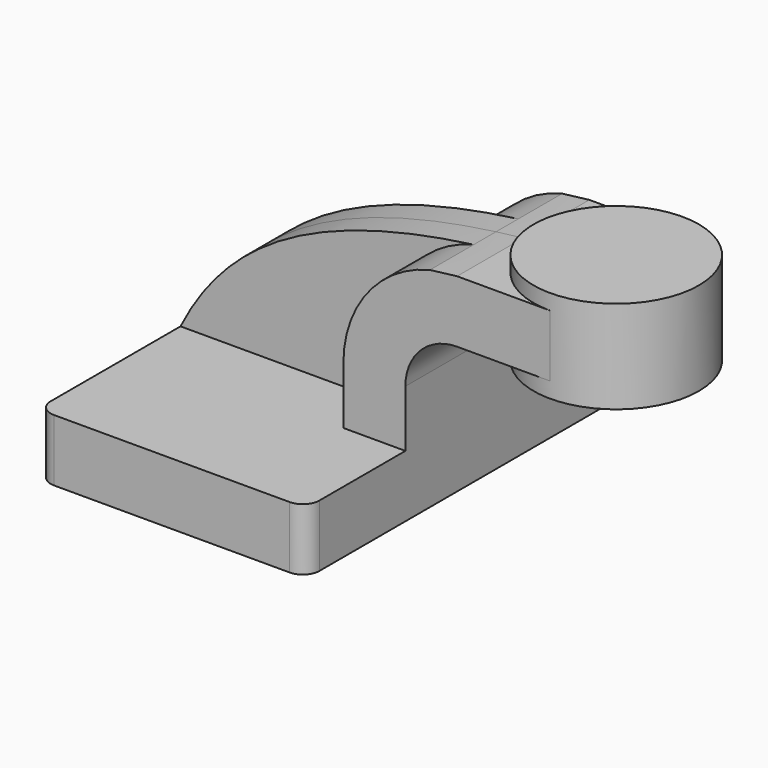
from build123d import *

# Parameters (mm, degrees)
F1_DEPTH = 63.5
F0_W     = 25.4
F0_H     = 19.05
F2_DEPTH = 25.4
F3_DEPTH = 8.5725
F5_R     = 5.08
F6_R     = 5.08


with BuildPart() as f1:
    # F0 (on Front) → F1 (new body, symmetric)
    with BuildSketch(Plane.XZ):
        Polygon((-41.275, -9.525), (41.275, -9.525), (41.275, 9.525), (22.225, 9.525), (-41.275, 9.525), align=None)
    extrude(amount=F1_DEPTH, both=True)

    # F0 (on Front) → F2 (join, symmetric)
    with BuildSketch(Plane.XZ):
        with BuildLine():
            Line((22.225, 9.525), (41.275, 9.525))
            Line((41.275, 9.525), (41.275, 27.0002))
            ThreePointArc((41.275, 27.0002), (45.9246798487, 38.2255201513), (57.15, 42.8752))
            Line((57.15, 42.8752), (60.325, 42.8752))
            Line((60.325, 42.8752), (60.325, 61.9252))
            Line((60.325, 61.9252), (57.15, 61.9252))
            add(Edge.make_bspline(
                [(48.799496005, 60.9122142137), (51.5091606106, 61.2788286144), (54.2919418536, 61.6165297242), (57.15, 61.9252)],
                knots=[105.928220364, 105.928220364, 105.928220364, 105.928220364, 111.5045361635, 111.5045361635, 111.5045361635, 111.5045361635], degree=3))
            ThreePointArc((48.799496005, 60.9122142137), (29.6600293104, 48.5421854351), (22.225, 27.0002))
            Line((22.225, 27.0002), (22.225, 9.525))
        make_face()
        with Locations((73.025, 52.4002)):
            Rectangle(F0_W, F0_H)
    extrude(amount=F2_DEPTH, both=True)

    # F0 (on Front) → F3 (join, symmetric)
    with BuildSketch(Plane.XZ):
        with BuildLine():
            add(Edge.make_bspline(
                [(-41.275, 9.525), (-27.7623370753, 36.5503236865), (-2.6735481659, 53.9479725138), (48.799496005, 60.9122142137)],
                knots=[0, 0, 0, 0, 105.928220364, 105.928220364, 105.928220364, 105.928220364], degree=3))
            Line((-41.275, 9.525), (22.225, 9.525))
            Line((22.225, 9.525), (22.225, 27.0002))
            ThreePointArc((22.225, 27.0002), (29.6600293104, 48.5421854351), (48.799496005, 60.9122142137))
        make_face()
    extrude(amount=F3_DEPTH, both=True)

    # F0 (on Front) → F4 (revolve)
    with BuildSketch(Plane.XZ):
        Polygon((85.725, 61.9252), (85.725, 42.8752), (85.725, 38.1), (111.125, 38.1), (111.125, 66.675), (85.725, 66.675), align=None)
    revolve(axis=Axis((85.725, 0, 52.3875), (0, 0, -1)))

    # F5
    f5_edges = [f1.edges().sort_by_distance(p)[0] for p in [
        (41.275, -63.5, 0),
        (-41.275, -63.5, 0),
    ]]
    fillet(f5_edges, radius=F5_R)

    # F6
    f6_edges = [f1.edges().sort_by_distance(p)[0] for p in [
        (41.275, 63.5, 0),
        (-41.275, 63.5, 0),
    ]]
    fillet(f6_edges, radius=F6_R)


solid = f1.part
